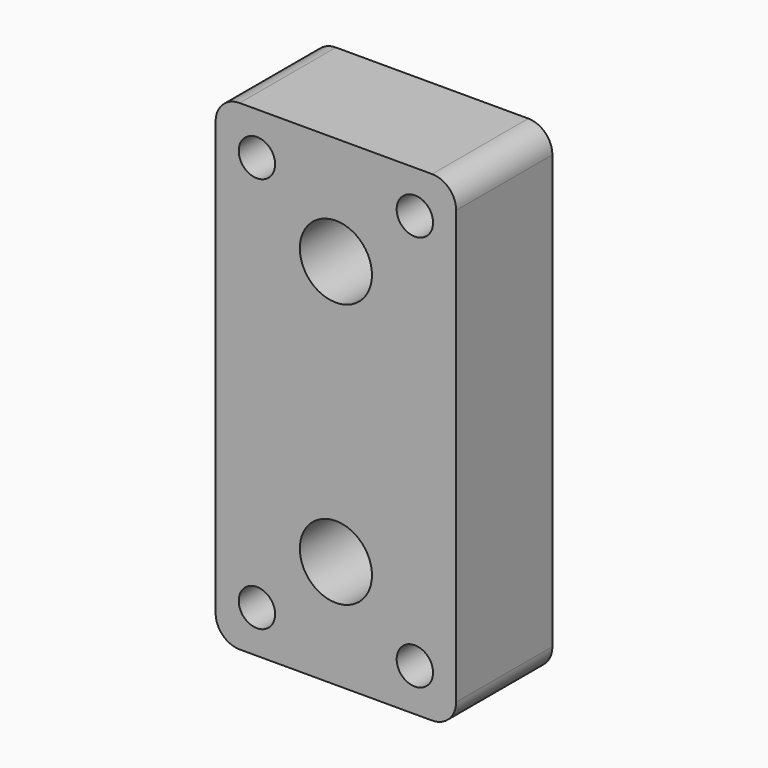
from build123d import *

# Parameters (mm, degrees)
F0_W     = 50.8
F0_H     = 101.6
F0_R     = 7.62
F1_DEPTH = 12.7
F2_R     = 5.08
F3_R     = 3.844677
F4_DEPTH = 25.4


with BuildPart() as f1:
    # F0 (on Front) → F1 (new body, symmetric)
    with BuildSketch(Plane.XZ):
        Rectangle(F0_W, F0_H)
        with Locations((0, -27.914425)):
            Circle(F0_R, mode=Mode.SUBTRACT)
        with Locations((0, 27.914425)):
            Circle(F0_R, mode=Mode.SUBTRACT)
    extrude(amount=F1_DEPTH, both=True)

    # F2
    f2_edges = [f1.edges().sort_by_distance(p)[0] for p in [
        (25.4, 0, 50.8),
        (25.4, 0, -50.8),
        (-25.4, 0, -50.8),
        (-25.4, 0, 50.8),
    ]]
    fillet(f2_edges, radius=F2_R)

    # F3 (on face) → F4 (cut)
    with BuildSketch(Plane.XZ.offset(12.7)):
        with Locations((-16.676344, 41.827552)):
            Circle(F3_R)
        with Locations((16.676344, 41.827552)):
            Circle(F3_R)
        with Locations((-16.676344, -41.827552)):
            Circle(F3_R)
        with Locations((16.676344, -41.827552)):
            Circle(F3_R)
    extrude(amount=-F4_DEPTH, mode=Mode.SUBTRACT)


solid = f1.part
